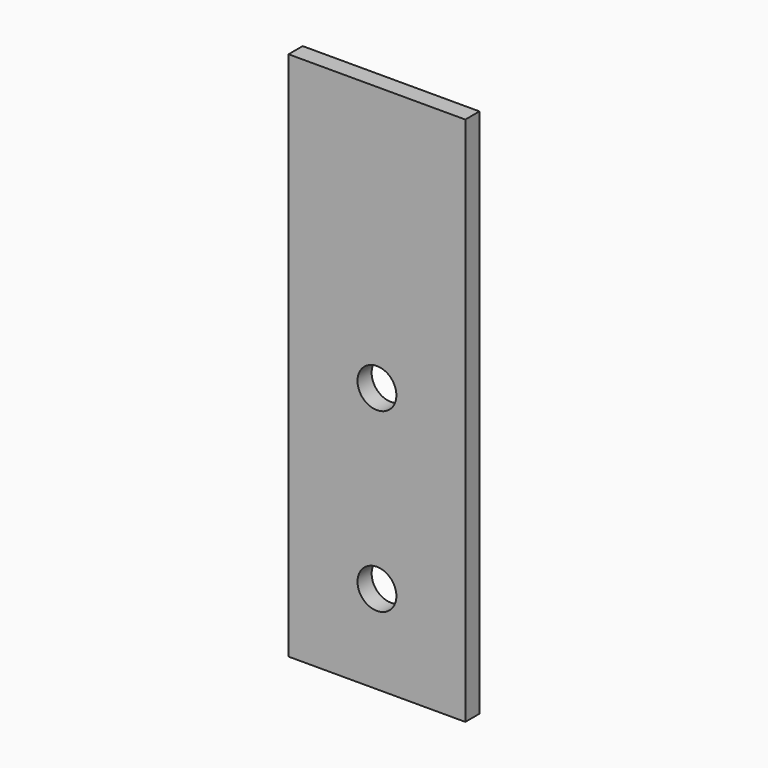
from build123d import *

# Parameters (mm, degrees)
F0_W     = 50
F0_H     = 150
F0_R     = 5.5
F1_DEPTH = 2.5


with BuildPart() as f1:
    # F0 (on Front) → F1 (new body, symmetric)
    with BuildSketch(Plane.XZ):
        Rectangle(F0_W, F0_H)
        with Locations((0, -50)):
            Circle(F0_R, mode=Mode.SUBTRACT)
        Circle(F0_R, mode=Mode.SUBTRACT)
    extrude(amount=F1_DEPTH, both=True)


solid = f1.part
